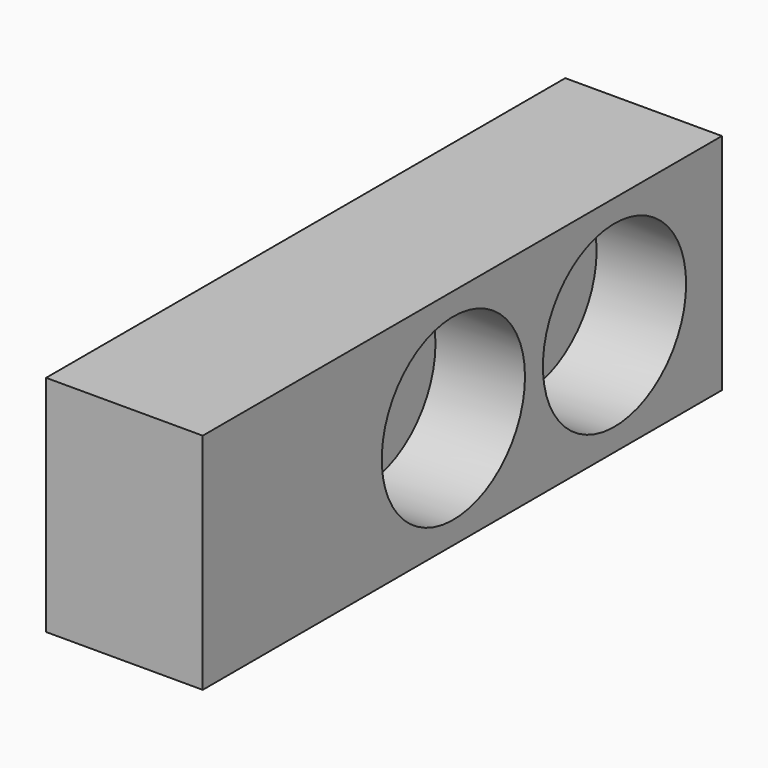
from build123d import *

# Parameters (mm, degrees)
F0_W     = 35
F0_H     = 50
F1_DEPTH = 145
F2_R     = 20
F3_DEPTH = 20


with BuildPart() as f1:
    # F0 (on Front) → F1 (new body)
    with BuildSketch(Plane.XZ):
        with Locations((17.5, 25)):
            Rectangle(F0_W, F0_H)
    extrude(amount=F1_DEPTH)

    # F2 (on face) → F3 (cut)
    with BuildSketch(Plane.YZ.offset(35)):
        with Locations((-75, 25)):
            Circle(F2_R)
        with Locations((-30, 25)):
            Circle(F2_R)
    extrude(amount=-F3_DEPTH, mode=Mode.SUBTRACT)


solid = f1.part
